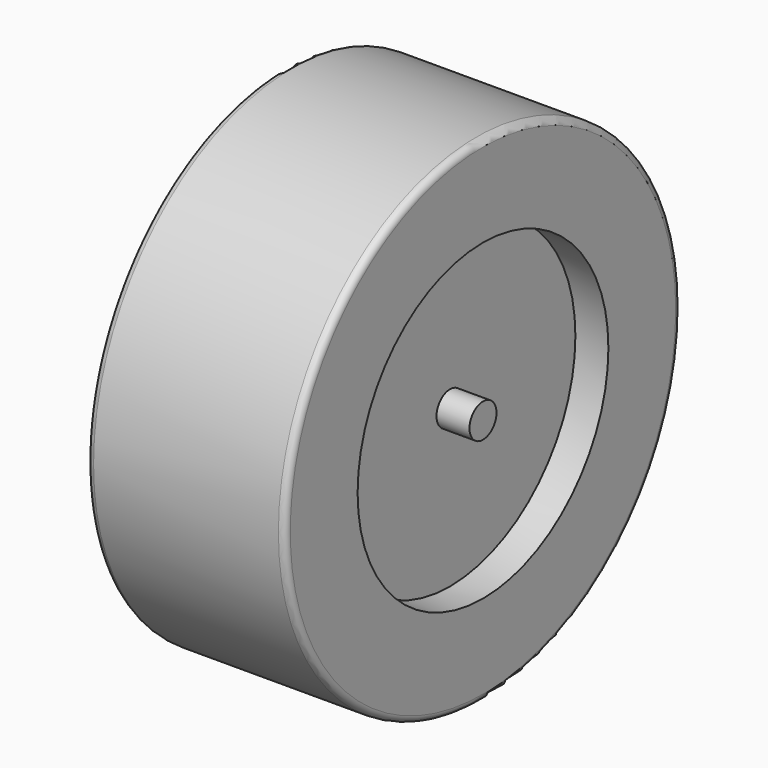
from build123d import *

# Parameters (mm, degrees)
F0_R     = 0.649287
F1_DEPTH = 3.81
F0_R_2   = 6.031813
F2_DEPTH = 2.54
F0_R_3   = 9.525
F3_DEPTH = 3.81
F4_R     = 0.254


with BuildPart() as f1:
    # F0 (on Right) → F1 (new body, symmetric)
    with BuildSketch(Plane.YZ):
        Circle(F0_R)
    extrude(amount=F1_DEPTH, both=True)

    # F0 (on Right) → F2 (join, symmetric)
    with BuildSketch(Plane.YZ):
        Circle(F0_R_2)
        Circle(F0_R, mode=Mode.SUBTRACT)
    extrude(amount=F2_DEPTH, both=True)

    # F0 (on Right) → F3 (join, symmetric)
    with BuildSketch(Plane.YZ):
        Circle(F0_R_3)
        Circle(F0_R_2, mode=Mode.SUBTRACT)
    extrude(amount=F3_DEPTH, both=True)

    # F4
    f4_edges = [f1.edges().sort_by_distance(p)[0] for p in [
        (3.81, -9.525, 0),
        (-3.81, -9.525, 0),
    ]]
    fillet(f4_edges, radius=F4_R)


solid = f1.part
